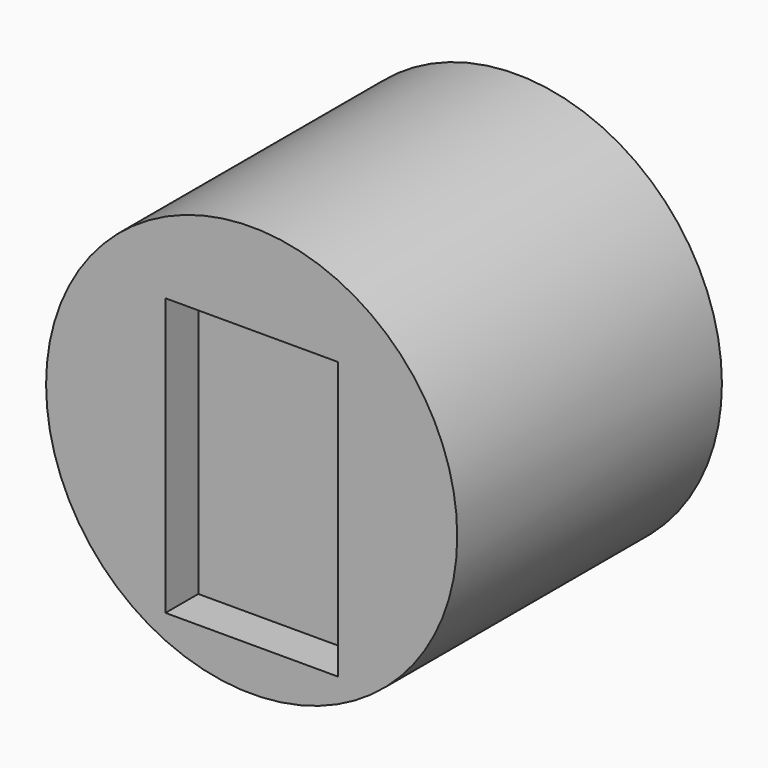
from build123d import *

# Parameters (mm, degrees)
F0_R     = 127.284802
F1_DEPTH = 179.436669
F2_R     = 127.284802
F2_W     = 106.725142
F2_H     = 171.501666
F3_DEPTH = 25.4


with BuildPart() as f1:
    # F0 (on Front) → F1 (new body)
    with BuildSketch(Plane.XZ):
        with Locations((0, 14.724404)):
            Circle(F0_R)
    extrude(amount=F1_DEPTH)

    # F2 (on face) → F3 (join)
    with BuildSketch(Plane.XZ.offset(179.436669)):
        with Locations((0, 14.724404)):
            Circle(F2_R)
        Rectangle(F2_W, F2_H, mode=Mode.SUBTRACT)
    extrude(amount=F3_DEPTH)


solid = f1.part
